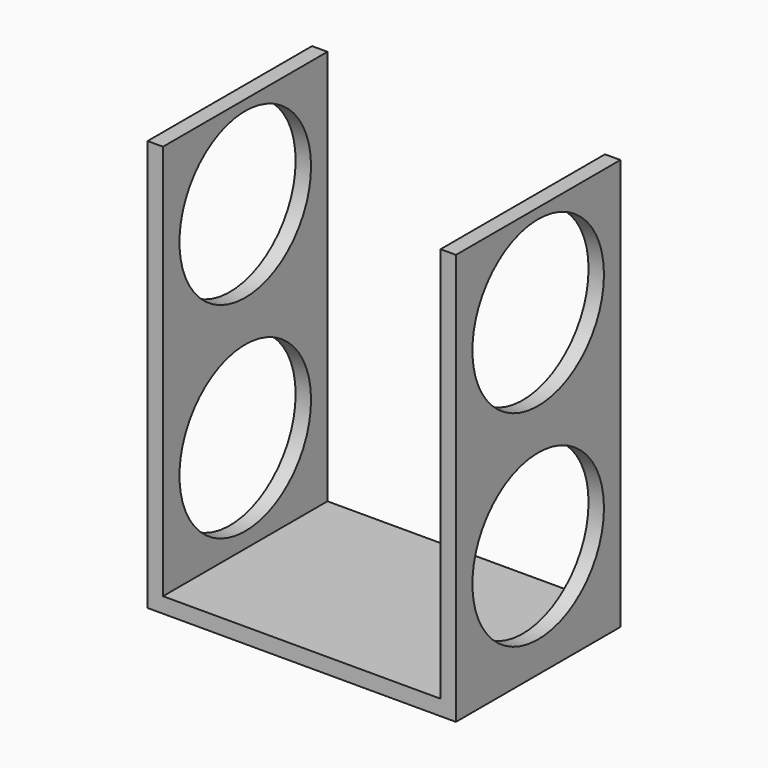
from build123d import *

# Parameters (mm, degrees)
F0_W     = 38.1
F0_H     = 25.4
F1_DEPTH = 50.8
F2_W     = 34.29
F2_H     = 48.895
F3_DEPTH = 25.4
F4_R     = 10.16
F5_DEPTH = 50.8


with BuildPart() as f1:
    # F0 (on Top) → F1 (new body)
    with BuildSketch(Plane.XY):
        with Locations((19.05, 12.7)):
            Rectangle(F0_W, F0_H)
    extrude(amount=F1_DEPTH)

    # F2 (on face) → F3 (cut)
    with BuildSketch(Plane.XZ):
        with Locations((19.05, 26.3525)):
            Rectangle(F2_W, F2_H)
    extrude(amount=-F3_DEPTH, mode=Mode.SUBTRACT)

    # F4 (on face) → F5 (cut)
    with BuildSketch(Plane.YZ.offset(38.1)):
        with Locations((12.7, 39.37)):
            Circle(F4_R)
        with Locations((12.7, 13.97)):
            Circle(F4_R)
    extrude(amount=-F5_DEPTH, mode=Mode.SUBTRACT)


solid = f1.part
